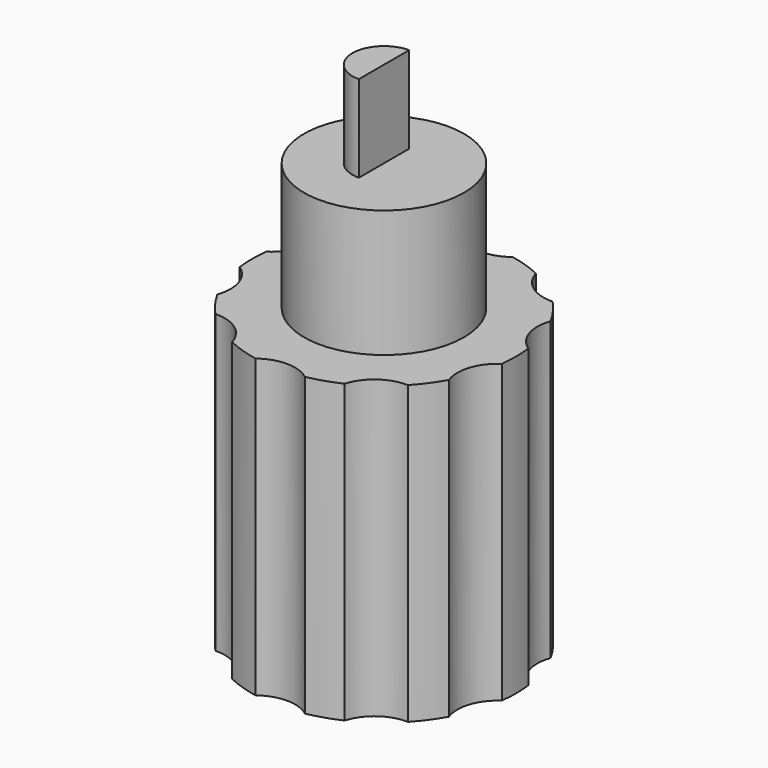
from build123d import *

# Parameters (mm, degrees)
F0_R     = 7.35
F1_DEPTH = 16.5
F2_R     = 4.45
F3_DEPTH = 7.08
F6_DEPTH = 4.83
F7_R     = 2.25
F8_DEPTH = 25
F9_DEPTH = 25


with BuildPart() as f1:
    # F0 (on Top) → F1 (new body)
    with BuildSketch(Plane.XY):
        Circle(F0_R)
    extrude(amount=F1_DEPTH)

    # F2 (on face) → F3 (join)
    with BuildSketch(Plane.XY.offset(16.5)):
        Circle(F2_R)
    extrude(amount=F3_DEPTH)

    # F5 (on face) → F6 (join)
    with BuildSketch(Plane.XY.offset(23.58)):
        with BuildLine():
            Line((0, -1.75), (0, 1.75))
            ThreePointArc((0, 1.75), (-1.75, 0), (0, -1.75))
        make_face()
    extrude(amount=F6_DEPTH)

    # F7 (on face) → F8 (cut)
    with BuildSketch(Plane(origin=(0, 0, 0), x_dir=(1, 0, 0), z_dir=(0, 0, -1))):
        with Locations((0, -9)):
            Circle(F7_R)
        with Locations((5.2900672706, -7.2811529494)):
            Circle(F7_R)
        with Locations((8.5595086467, -2.7811529494)):
            Circle(F7_R)
        with Locations((8.5595086467, 2.7811529494)):
            Circle(F7_R)
        with Locations((5.2900672706, 7.2811529494)):
            Circle(F7_R)
        with Locations((0, 9)):
            Circle(F7_R)
        with Locations((-5.2900672706, 7.2811529494)):
            Circle(F7_R)
        with Locations((-8.5595086467, 2.7811529494)):
            Circle(F7_R)
        with Locations((-8.5595086467, -2.7811529494)):
            Circle(F7_R)
        with Locations((-5.2900672706, -7.2811529494)):
            Circle(F7_R)
    extrude(amount=-F8_DEPTH, mode=Mode.SUBTRACT)

    # F7 (on face) → F9 (cut)
    with BuildSketch(Plane(origin=(0, 0, 0), x_dir=(1, 0, 0), z_dir=(0, 0, -1))):
        with BuildLine():
            ThreePointArc((7.2919167208, -0.9221987516), (6.419631485, -2.085864712), (6.4413393745, -3.5400066472))
            ThreePointArc((6.4413393745, -3.5400066472), (6.9902653948, -2.2712749087), (7.2919167208, -0.9221987516))
        make_face()
        with BuildLine():
            ThreePointArc((5.3572297228, -5.0321555716), (4.3202216043, -5.9462749087), (3.1303893203, -6.6500498271))
            ThreePointArc((3.1303893203, -6.6500498271), (4.9713004187, -9.5084579788), (7.5400672706, -7.2811529494))
            ThreePointArc((7.5400672706, -7.2811529494), (6.9046284366, -5.7140881003), (5.3572297228, -5.0321555716))
        make_face()
        with BuildLine():
            ThreePointArc((-1.3762630563, -7.22), (-0.9914403975, -11.0197885875), (2.25, -9))
            ThreePointArc((2.25, -9), (2.0197885875, -8.0085596025), (1.3762630563, -7.22))
            ThreePointArc((1.3762630563, -7.22), (0, -7.35), (-1.3762630563, -7.22))
        make_face()
        with BuildLine():
            ThreePointArc((-3.0400672706, -7.2811529494), (-3.0627622412, -6.9623860974), (-3.1303893203, -6.6500498271))
            ThreePointArc((-3.1303893203, -6.6500498271), (-4.3202216043, -5.9462749087), (-5.3572297228, -5.0321555716))
            ThreePointArc((-5.3572297228, -5.0321555716), (-6.8571321197, -8.8957141153), (-3.0400672706, -7.2811529494))
        make_face()
        with BuildLine():
            ThreePointArc((-7.2919167208, -0.9221987516), (-10.6993858083, -3.4764411867), (-6.4413393745, -3.5400066472))
            ThreePointArc((-6.4413393745, -3.5400066472), (-6.9902653948, -2.2712749087), (-7.2919167208, -0.9221987516))
        make_face()
        with BuildLine():
            ThreePointArc((-6.4413393745, 3.5400066472), (-10.6993858083, 3.4764411867), (-7.2919167208, 0.9221987516))
            ThreePointArc((-7.2919167208, 0.9221987516), (-6.9902653948, 2.2712749087), (-6.4413393745, 3.5400066472))
        make_face()
        with BuildLine():
            ThreePointArc((-3.1303893203, 6.6500498271), (-4.3202216043, 5.9462749087), (-5.3572297228, 5.0321555716))
            ThreePointArc((-5.3572297228, 5.0321555716), (-3.967550453, 5.460864712), (-3.1303893203, 6.6500498271))
        make_face()
        with BuildLine():
            ThreePointArc((1.3762630563, 7.22), (0, 7.35), (-1.3762630563, 7.22))
            ThreePointArc((-1.3762630563, 7.22), (0, 6.75), (1.3762630563, 7.22))
        make_face()
        with BuildLine():
            ThreePointArc((3.1303893203, 6.6500498271), (3.967550453, 5.460864712), (5.3572297228, 5.0321555716))
            ThreePointArc((5.3572297228, 5.0321555716), (4.3202216043, 5.9462749087), (3.1303893203, 6.6500498271))
        make_face()
        with BuildLine():
            ThreePointArc((6.4413393745, 3.5400066472), (6.419631485, 2.085864712), (7.2919167208, 0.9221987516))
            ThreePointArc((7.2919167208, 0.9221987516), (6.9902653948, 2.2712749087), (6.4413393745, 3.5400066472))
        make_face()
    extrude(amount=-F9_DEPTH, mode=Mode.SUBTRACT)


solid = f1.part
